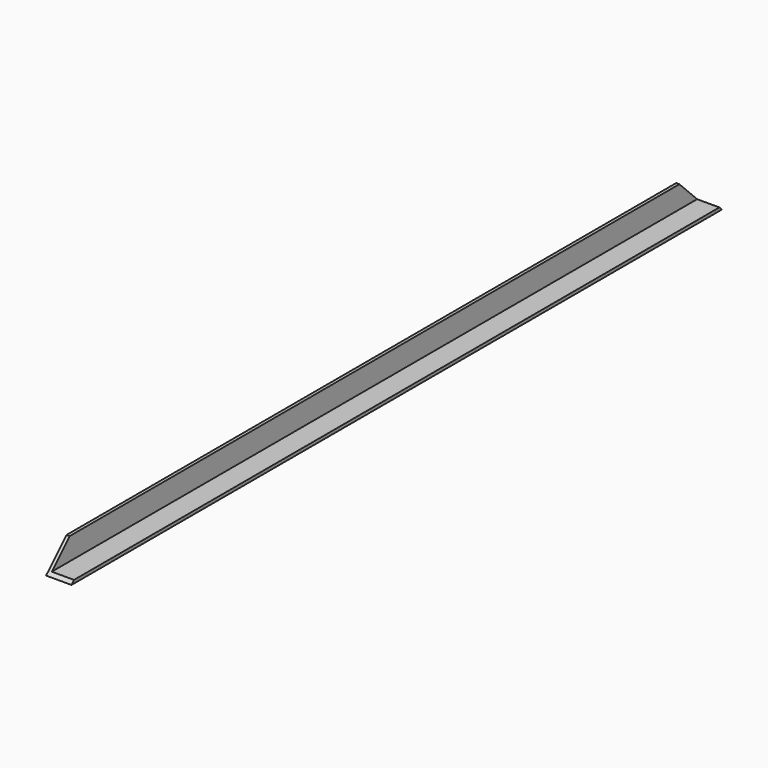
from build123d import *

# Parameters (mm, degrees)
F1_DEPTH = 1219.2
F3_DEPTH = 38.101


with BuildPart() as f1:
    # F0 (on Front) → F1 (new body)
    with BuildSketch(Plane.XZ):
        Polygon((0, 38.1), (0, 0), (38.1, 0), (38.1, 4.7625), (4.7625, 4.7625), (4.7625, 38.1), align=None)
    extrude(amount=F1_DEPTH)

    # F2 (on face) → F3 (cut, through all)
    with BuildSketch(Plane(origin=(0, 0, 0), x_dir=(0, -1, 0), z_dir=(-1, 0, 0))):
        Polygon((1181.1, 38.1), (1219.2, 0), (1219.2, 38.1), align=None)
        Polygon((0, 0), (38.1, 38.1), (0, 38.1), align=None)
    extrude(amount=-F3_DEPTH, mode=Mode.SUBTRACT)


solid = f1.part
